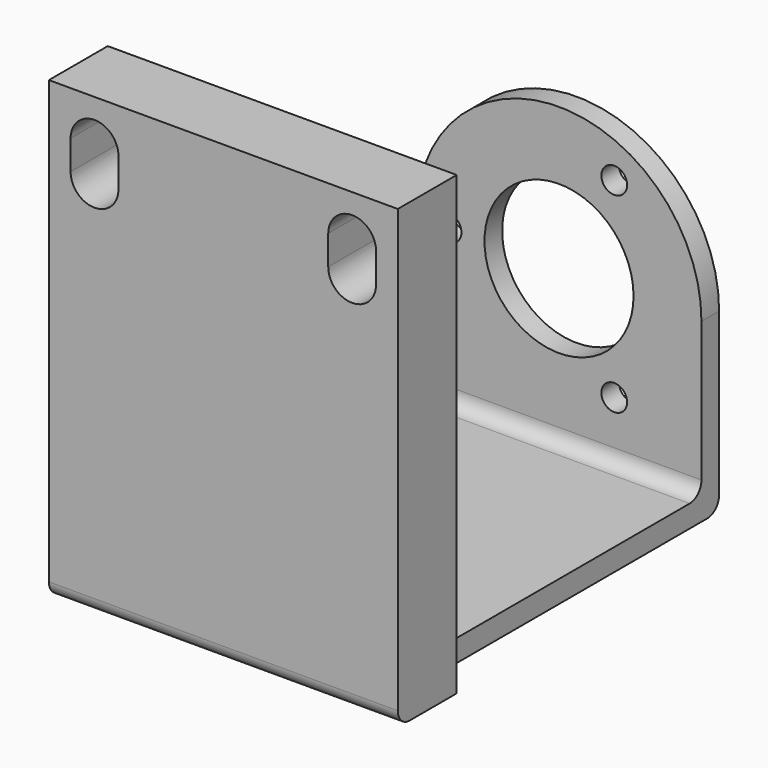
from build123d import *

# Parameters (mm, degrees)
SKETCH_R     = 10.125
SKETCH_R_2   = 1.75
PAD_DEPTH    = 3
SKETCH001_W  = 38.7
SKETCH001_H  = 3
PAD001_DEPTH = 60
SKETCH002_W  = 47.4
SKETCH002_H  = 10
PAD002_DEPTH = 62
POCKET_DEPTH = 10
FILLET_R     = 2
FILLET001_R  = 5
FILLET002_R  = 2
FILLET003_R  = 4


with BuildPart() as part:
    # Sketch → Pad (new body)
    with BuildSketch(Plane.XZ):
        with BuildLine():
            ThreePointArc((19.35, -3e-06), (0, 19.35), (-19.35, -3e-06))
            Line((-19.35, -3e-06), (-19.35, -24.000003))
            Line((-19.35, -24.000003), (19.35, -24.000003))
            Line((19.35, -24.000003), (19.35, -3e-06))
        make_face()
        Circle(SKETCH_R, mode=Mode.SUBTRACT)
        with Locations((7.500003, 12.990379)):
            Circle(SKETCH_R_2, mode=Mode.SUBTRACT)
        with Locations((-15, 5e-06)):
            Circle(SKETCH_R_2, mode=Mode.SUBTRACT)
        with Locations((7.499994, -12.990384)):
            Circle(SKETCH_R_2, mode=Mode.SUBTRACT)
    extrude(amount=PAD_DEPTH)

    # Sketch001 (on Face9 of Pad) → Pad001 (join)
    with BuildSketch(Plane(origin=(0, 0, 0), x_dir=(1, 0, 0), z_dir=(0, 1, 0))):
        with Locations((0, 22.500003)):
            Rectangle(SKETCH001_W, SKETCH001_H)
    extrude(amount=-PAD001_DEPTH)

    # Sketch002 (on Face12 of Pad001) → Pad002 (join)
    with BuildSketch(Plane(origin=(0, 0, -24.000003), x_dir=(1, 0, 0), z_dir=(0, 0, -1))):
        with Locations((0, 55)):
            Rectangle(SKETCH002_W, SKETCH002_H)
    extrude(amount=-PAD002_DEPTH)

    # Sketch003 (on Face16 of Pad002) → Pocket (cut)
    with BuildSketch(Plane.XZ.offset(60)):
        with BuildLine():
            ThreePointArc((-14.25, 32), (-17.5, 35.25), (-20.75, 32))
            Line((-20.75, 32), (-20.75, 28))
            ThreePointArc((-20.75, 28), (-17.5, 24.75), (-14.25, 28))
            Line((-14.25, 32), (-14.25, 28))
        make_face()
        with BuildLine():
            ThreePointArc((20.75, 32), (17.5, 35.25), (14.25, 32))
            Line((14.25, 32), (14.25, 28))
            ThreePointArc((14.25, 28), (17.5, 24.75), (20.75, 28))
            Line((20.75, 32), (20.75, 28))
        make_face()
    extrude(amount=-POCKET_DEPTH, mode=Mode.SUBTRACT)

    # Fillet
    fillet_edges = [part.edges().sort_by_distance(p)[0] for p in [
        (0, 0, -24.000003),
        (0, -3, -21.000003),
    ]]
    fillet(fillet_edges, radius=FILLET_R)

    # Fillet001
    fillet001_edges = [part.edges().sort_by_distance(p)[0] for p in [
        (0, -50, -21.000003),
    ]]
    fillet(fillet001_edges, radius=FILLET001_R)

    # Fillet002
    fillet002_edges = [part.edges().sort_by_distance(p)[0] for p in [
        (0, -60, -24.000003),
    ]]
    fillet(fillet002_edges, radius=FILLET002_R)

    # Fillet003
    fillet003_edges = [part.edges().sort_by_distance(p)[0] for p in [
        (-19.35, -50, -22.500003),
        (-19.35, -50, -18.500003),
        (19.35, -50, -22.500003),
        (19.35, -50, -18.500003),
    ]]
    fillet(fillet003_edges, radius=FILLET003_R)


solid = part.part
